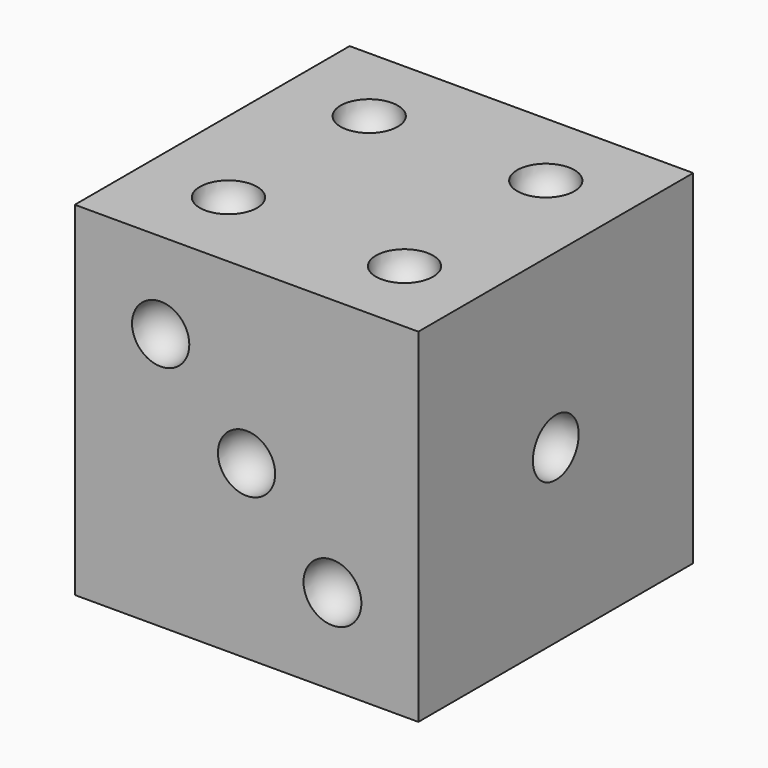
from build123d import *

# Parameters (mm, degrees)
F0_W     = 76.2
F0_H     = 76.2
F1_DEPTH = 76.2


with BuildPart() as f1:
    # F0 (on Front) → F1 (new body)
    with BuildSketch(Plane.XZ):
        with Locations((38.1, 38.1)):
            Rectangle(F0_W, F0_H)
    extrude(amount=F1_DEPTH)

    # F2 (on face) → F3 (revolve, cut)
    with BuildSketch(Plane.YZ.offset(76.2)):
        with BuildLine():
            Line((-38.1, 38.1), (-38.1, 44.45))
            ThreePointArc((-38.1, 44.45), (-44.45, 38.1), (-38.1, 31.75))
            Line((-38.1, 31.75), (-38.1, 38.1))
        make_face()
    revolve(axis=Axis((76.2, -38.1, 38.1), (0, 0, -1)), mode=Mode.SUBTRACT)

    # F4 (on Top) → F5 (revolve, cut)
    with BuildSketch(Plane.XY):
        with BuildLine():
            Line((38.0102917552, -37.8994755447), (38.0102917552, -31.5673652077))
            ThreePointArc((38.0102917552, -31.5673652077), (31.6781814182, -37.8994755447), (38.0102917552, -44.2315858817))
            Line((38.0102917552, -44.2315858817), (38.0102917552, -37.8994755447))
        make_face()
    revolve(axis=Axis((38.0102917552, -33.2418195903, 0), (0, 1, 0)), mode=Mode.SUBTRACT)

    # F7 (on face) → F9 (revolve, cut)
    with BuildSketch(Plane(origin=(0, 0, 0), x_dir=(1, 0, 0), z_dir=(0, 0, -1))):
        with BuildLine():
            Line((19.05, 50.8), (19.05, 63.5))
            ThreePointArc((19.05, 63.5), (12.7, 57.15), (19.05, 50.8))
        make_face()
    revolve(axis=Axis((19.05, -38.1, 0), (0, 1, 0)), mode=Mode.SUBTRACT)

    # F10 (on face) → F11 (revolve, cut)
    with BuildSketch(Plane(origin=(0, 0, 0), x_dir=(1, 0, 0), z_dir=(0, 0, -1))):
        with BuildLine():
            Line((57.15, 50.8), (57.15, 63.5))
            ThreePointArc((57.15, 63.5), (50.8, 57.15), (57.15, 50.8))
        make_face()
    revolve(axis=Axis((57.15, -38.1, 0), (0, 1, 0)), mode=Mode.SUBTRACT)

    # F12 (on face) → F13 (revolve, cut)
    with BuildSketch(Plane(origin=(0, 0, 0), x_dir=(1, 0, 0), z_dir=(0, 0, -1))):
        with BuildLine():
            Line((57.15, 12.7), (57.15, 25.4))
            ThreePointArc((57.15, 25.4), (50.8, 19.05), (57.15, 12.7))
        make_face()
    revolve(axis=Axis((57.15, -28.575, 0), (0, 1, 0)), mode=Mode.SUBTRACT)

    # F14 (on face) → F15 (revolve, cut)
    with BuildSketch(Plane(origin=(0, 0, 0), x_dir=(1, 0, 0), z_dir=(0, 0, -1))):
        with BuildLine():
            Line((19.05, 12.7), (19.05, 25.4))
            ThreePointArc((19.05, 25.4), (12.7, 19.05), (19.05, 12.7))
        make_face()
    revolve(axis=Axis((19.05, -28.575, 0), (0, 1, 0)), mode=Mode.SUBTRACT)

    # F16 (on face) → F17 (revolve, cut)
    with BuildSketch(Plane.XZ.offset(76.2)):
        with BuildLine():
            Line((19.05, 50.8), (19.05, 63.5))
            ThreePointArc((19.05, 63.5), (12.7, 57.15), (19.05, 50.8))
        make_face()
    revolve(axis=Axis((19.05, -76.2, 38.1), (0, 0, -1)), mode=Mode.SUBTRACT)

    # F18 (on face) → F19 (revolve, cut)
    with BuildSketch(Plane.XZ.offset(76.2)):
        with BuildLine():
            Line((38.1, 31.75), (38.1, 44.45))
            ThreePointArc((38.1, 44.45), (31.75, 38.1), (38.1, 31.75))
        make_face()
    revolve(axis=Axis((38.1, -76.2, 38.1), (0, 0, -1)), mode=Mode.SUBTRACT)

    # F20 (on face) → F21 (revolve, cut)
    with BuildSketch(Plane.XZ.offset(76.2)):
        with BuildLine():
            ThreePointArc((57.15, 25.4647341959), (50.7352658041, 19.05), (57.15, 12.6352658041))
            Line((57.15, 12.6352658041), (57.15, 25.4647341959))
        make_face()
    revolve(axis=Axis((57.15, -76.2, 38.1), (0, 0, 1)), mode=Mode.SUBTRACT)

    # F22 (on face) → F23 (revolve, cut)
    with BuildSketch(Plane.XY.offset(76.2)):
        with BuildLine():
            Line((19.05, -63.7532962322), (19.05, -51.0532962322))
            ThreePointArc((19.05, -51.0532962322), (12.7, -57.4032962322), (19.05, -63.7532962322))
        make_face()
        with BuildLine():
            Line((19.05, -24.7456511319), (19.05, -12.0456511319))
            ThreePointArc((19.05, -12.0456511319), (12.7, -18.3956511319), (19.05, -24.7456511319))
        make_face()
    revolve(axis=Axis((19.05, -38.4535603225, 76.2), (0, -1, 0)), mode=Mode.SUBTRACT)

    # F24 (on face) → F25 (revolve, cut)
    with BuildSketch(Plane.XY.offset(76.2)):
        with BuildLine():
            Line((59.1245829463, -64.8597728371), (58.8310192698, -52.1631661893))
            ThreePointArc((58.8310192698, -52.1631661893), (52.6294977842, -58.6582513514), (59.1245829463, -64.8597728371))
        make_face()
        with BuildLine():
            Line((58.1919234388, -24.5223201721), (57.8983597623, -11.8257135243))
            ThreePointArc((57.8983597623, -11.8257135243), (51.6968382767, -18.3207986864), (58.1919234388, -24.5223201721))
        make_face()
    revolve(axis=Axis((58.5114713758, -38.342744112, 76.2), (0.0231152501, -0.9997328069, 0)), mode=Mode.SUBTRACT)

    # F26 (on face) → F27 (revolve, cut)
    with BuildSketch(Plane(origin=(0, 0, 0), x_dir=(-1, 0, 0), z_dir=(0, 1, 0))):
        with BuildLine():
            Line((-57.15, 12.7), (-57.15, 25.4))
            ThreePointArc((-57.15, 25.4), (-63.5, 19.05), (-57.15, 12.7))
        make_face()
        with BuildLine():
            Line((-57.15, 31.75), (-57.15, 44.45))
            ThreePointArc((-57.15, 44.45), (-63.5, 38.1), (-57.15, 31.75))
        make_face()
        with BuildLine():
            Line((-57.15, 50.8), (-57.15, 63.5))
            ThreePointArc((-57.15, 63.5), (-63.5, 57.15), (-57.15, 50.8))
        make_face()
    revolve(axis=Axis((57.15, 0, 38.1), (0, 0, -1)), mode=Mode.SUBTRACT)

    # F28 (on face) → F29 (revolve, cut)
    with BuildSketch(Plane(origin=(0, 0, 0), x_dir=(-1, 0, 0), z_dir=(0, 1, 0))):
        with BuildLine():
            Line((-19.05, 12.7), (-19.05, 25.4))
            ThreePointArc((-19.05, 25.4), (-25.4, 19.05), (-19.05, 12.7))
        make_face()
        with BuildLine():
            Line((-19.05, 31.75), (-19.05, 44.45))
            ThreePointArc((-19.05, 44.45), (-25.4, 38.1), (-19.05, 31.75))
        make_face()
        with BuildLine():
            Line((-19.05, 50.8), (-19.05, 63.5))
            ThreePointArc((-19.05, 63.5), (-25.4, 57.15), (-19.05, 50.8))
        make_face()
    revolve(axis=Axis((19.05, 0, 38.1), (0, 0, -1)), mode=Mode.SUBTRACT)

    # F30 (on face) → F31 (revolve, cut)
    with BuildSketch(Plane(origin=(0, 0, 0), x_dir=(0, -1, 0), z_dir=(-1, 0, 0))):
        with BuildLine():
            Line((38.1, 38.1), (38.1, 44.45))
            ThreePointArc((38.1, 44.45), (31.75, 38.1), (38.1, 31.75))
            Line((38.1, 31.75), (38.1, 38.1))
        make_face()
    revolve(axis=Axis((0, -38.1, 53.975), (0, 0, 1)), mode=Mode.SUBTRACT)

    # F32 (on face) → F33 (revolve, cut)
    with BuildSketch(Plane(origin=(0, 0, 0), x_dir=(0, -1, 0), z_dir=(-1, 0, 0))):
        with BuildLine():
            ThreePointArc((19.05, 25.4), (12.7, 19.05), (19.05, 12.7))
            Line((19.05, 12.7), (19.05, 25.4))
        make_face()
    revolve(axis=Axis((0, -19.05, 38.1), (0, 0, 1)), mode=Mode.SUBTRACT)

    # F34 (on face) → F35 (revolve, cut)
    with BuildSketch(Plane(origin=(0, 0, 0), x_dir=(0, -1, 0), z_dir=(-1, 0, 0))):
        with BuildLine():
            Line((57.15, 50.8), (57.15, 63.5))
            ThreePointArc((57.15, 63.5), (50.8, 57.15), (57.15, 50.8))
        make_face()
    revolve(axis=Axis((0, -57.15, 38.1), (0, 0, -1)), mode=Mode.SUBTRACT)


solid = f1.part
